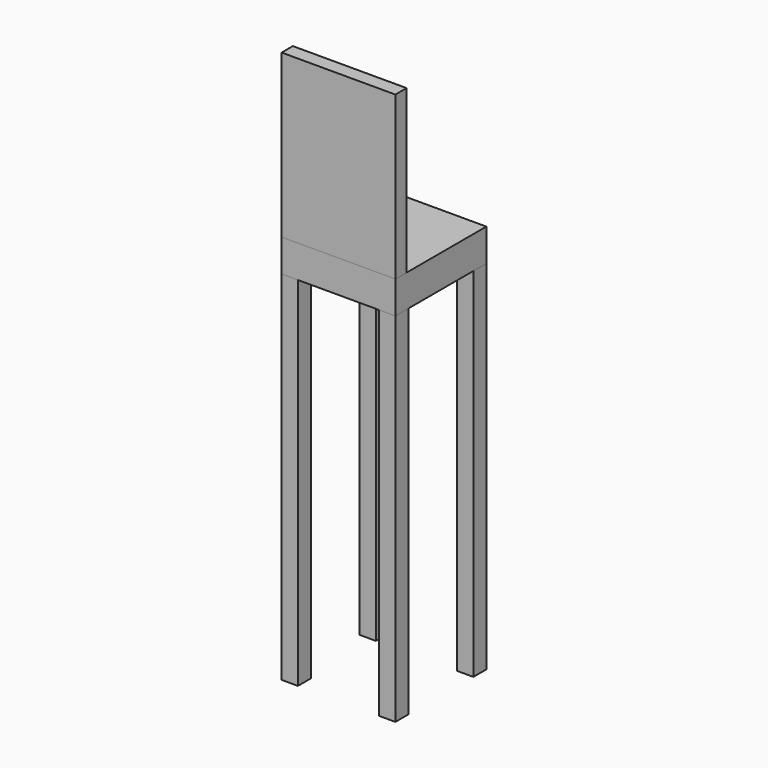
from build123d import *

# Parameters (mm, degrees)
F0_W     = 12.7
F0_H     = 12.7
F1_DEPTH = 304.8
F2_W     = 12.7
F2_H     = 12.7
F3_DEPTH = 25.4
F4_W     = 88.9
F4_H     = 10.9482222021
F5_DEPTH = 127


with BuildPart() as f1:
    # F0 (on Top) → F1 (new body)
    with BuildSketch(Plane.XY):
        with Locations((-38.1, -38.1)):
            Rectangle(F0_W, F0_H)
    extrude(amount=F1_DEPTH)


with BuildPart() as f1b:
    # F0 (on Top) → F1, piece 2 (new body)
    with BuildSketch(Plane.XY):
        with Locations((38.1, 38.1)):
            Rectangle(F0_W, F0_H)
    extrude(amount=F1_DEPTH)


with BuildPart() as f1c:
    # F0 (on Top) → F1, piece 3 (new body)
    with BuildSketch(Plane.XY):
        with Locations((38.1, -38.1)):
            Rectangle(F0_W, F0_H)
    extrude(amount=F1_DEPTH)


with BuildPart() as f1d:
    # F0 (on Top) → F1, piece 4 (new body)
    with BuildSketch(Plane.XY):
        with Locations((-38.1, 38.1)):
            Rectangle(F0_W, F0_H)
    extrude(amount=F1_DEPTH)


with BuildPart() as f3:
    # F2 (on face) → F3 (new body)
    with BuildSketch(Plane.XY.offset(304.8)):
        Polygon((44.45, 44.45), (-31.75, 44.45), (-31.75, 31.75), (-44.45, 31.75), (-44.45, -44.45), (44.45, -44.45), align=None)
        with Locations((-38.1, 38.1)):
            Rectangle(F2_W, F2_H)
    extrude(amount=-F3_DEPTH)


with BuildPart() as f5:
    # F4 (on face) → F5 (new body)
    with BuildSketch(Plane.XY.offset(304.8)):
        with Locations((0, -38.975888899)):
            Rectangle(F4_W, F4_H)
    extrude(amount=F5_DEPTH)


solid = Compound([f1.part, f1b.part, f1c.part, f1d.part, f3.part, f5.part])
